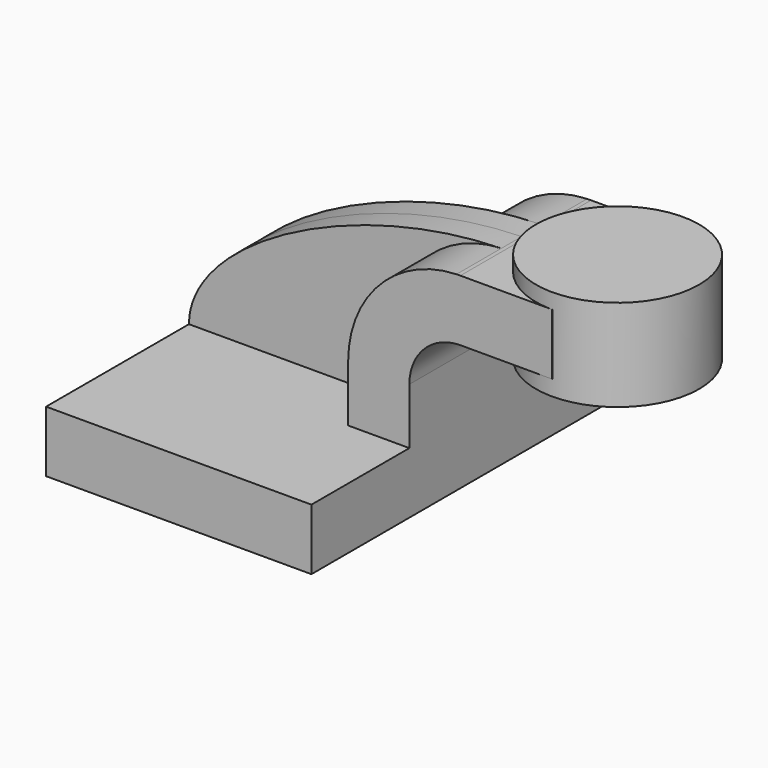
from build123d import *

# Parameters (mm, degrees)
F1_DEPTH = 63.5
F2_DEPTH = 7.9375
F0_W     = 25.4
F0_H     = 19.05
F3_DEPTH = 25.4


with BuildPart() as f1:
    # F0 (on Front) → F1 (new body, symmetric)
    with BuildSketch(Plane.XZ):
        Polygon((22.225, 9.525), (-41.275, 9.525), (-41.275, -9.525), (41.275, -9.525), (41.275, 9.525), align=None)
    extrude(amount=F1_DEPTH, both=True)

    # F0 (on Front) → F2 (join, symmetric)
    with BuildSketch(Plane.XZ):
        with BuildLine():
            add(Edge.make_bspline(
                [(-41.275, 9.525), (-41.2005666436, 34.0914382692), (9.3580758383, 60.8635541986), (55.9280401004, 61.9038164173)],
                knots=[0, 0, 0, 0, 110.5369802085, 110.5369802085, 110.5369802085, 110.5369802085], degree=3))
            Line((-41.275, 9.525), (22.225, 9.525))
            Line((22.225, 9.525), (22.225, 27.0002))
            ThreePointArc((22.225, 27.0002), (32.025981865, 51.260029714), (55.9280401004, 61.9038164173))
        make_face()
    extrude(amount=F2_DEPTH, both=True)

    # F0 (on Front) → F3 (join, symmetric)
    with BuildSketch(Plane.XZ):
        with Locations((73.025, 52.4002)):
            Rectangle(F0_W, F0_H)
        with BuildLine():
            Line((22.225, 27.0002), (22.225, 9.525))
            Line((22.225, 9.525), (41.275, 9.525))
            Line((41.275, 9.525), (41.275, 27.0002))
            ThreePointArc((41.275, 27.0002), (45.9246798487, 38.2255201513), (57.15, 42.8752))
            Line((57.15, 42.8752), (60.325, 42.8752))
            Line((60.325, 42.8752), (60.325, 61.9252))
            Line((60.325, 61.9252), (57.15, 61.9252))
            add(Edge.make_bspline(
                [(55.9280401004, 61.9038164173), (56.3356778535, 61.912922075), (56.7430099977, 61.9200561814), (57.15, 61.9252)],
                knots=[110.5369802085, 110.5369802085, 110.5369802085, 110.5369802085, 111.5045361635, 111.5045361635, 111.5045361635, 111.5045361635], degree=3))
            ThreePointArc((55.9280401004, 61.9038164173), (32.025981865, 51.260029714), (22.225, 27.0002))
        make_face()
    extrude(amount=F3_DEPTH, both=True)


with BuildPart() as f4:
    # F0 (on Front) → F4 (revolve)
    with BuildSketch(Plane.XZ):
        Polygon((85.725, 66.675), (85.725, 61.9252), (85.725, 42.8752), (85.725, 38.1), (111.125, 38.1), (111.125, 66.675), align=None)
    revolve(axis=Axis((85.725, 0, 54.7751), (0, 0, 1)))


solid = Compound([f1.part, f4.part])
